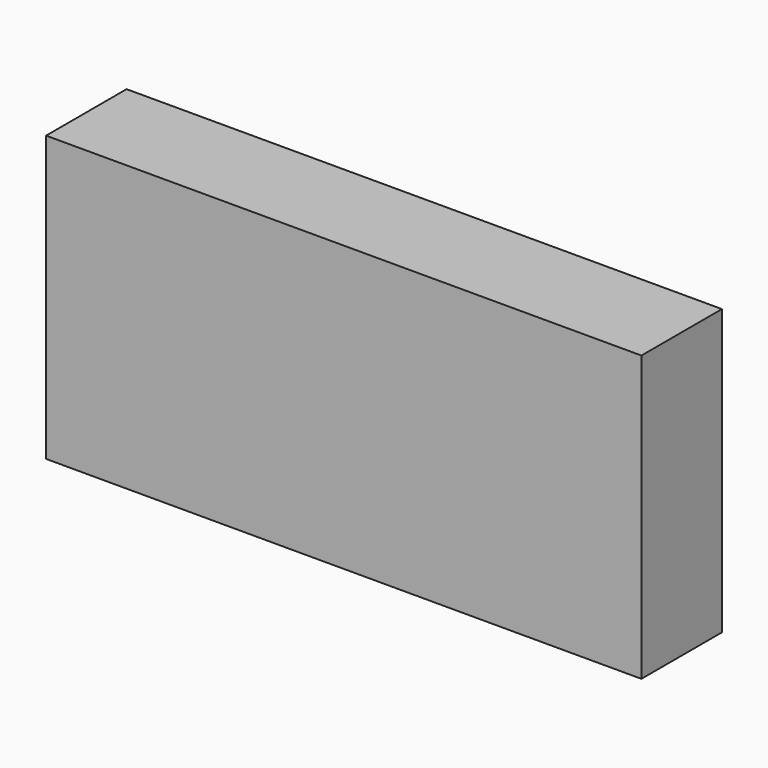
from build123d import *

# Parameters (mm, degrees)
F0_W     = 48.3708679676
F0_H     = 97.9666113853
F1_DEPTH = 24.4558788836
F2_DEPTH = 40.3822362423
F3_DEPTH = 51.912009716
F4_DEPTH = 144.6804255247


with BuildPart() as f1:
    # F0 (on Front) → F1 (new body, symmetric)
    with BuildSketch(Plane.XZ):
        Rectangle(F0_W, F0_H)
    extrude(amount=F1_DEPTH, both=True)

    # F2 (add, symmetric): a face of the model
    f2_faces = [f1.faces().sort_by_distance(p)[0] for p in [
        (0, 0, 48.9833056927),
    ]]
    extrude(f2_faces, amount=F2_DEPTH, both=True)

    # F3 (add): a face of the model
    f3_faces = [f1.faces().sort_by_distance(p)[0] for p in [
        (24.1854339838, 0, 20.1911181211),
    ]]
    extrude(f3_faces, amount=F3_DEPTH)

    # F4 (add, symmetric): a face of the model
    f4_faces = [f1.faces().sort_by_distance(p)[0] for p in [
        (76.0974436998, 0, 20.1911181211),
    ]]
    extrude(f4_faces, amount=F4_DEPTH, both=True)


solid = f1.part
